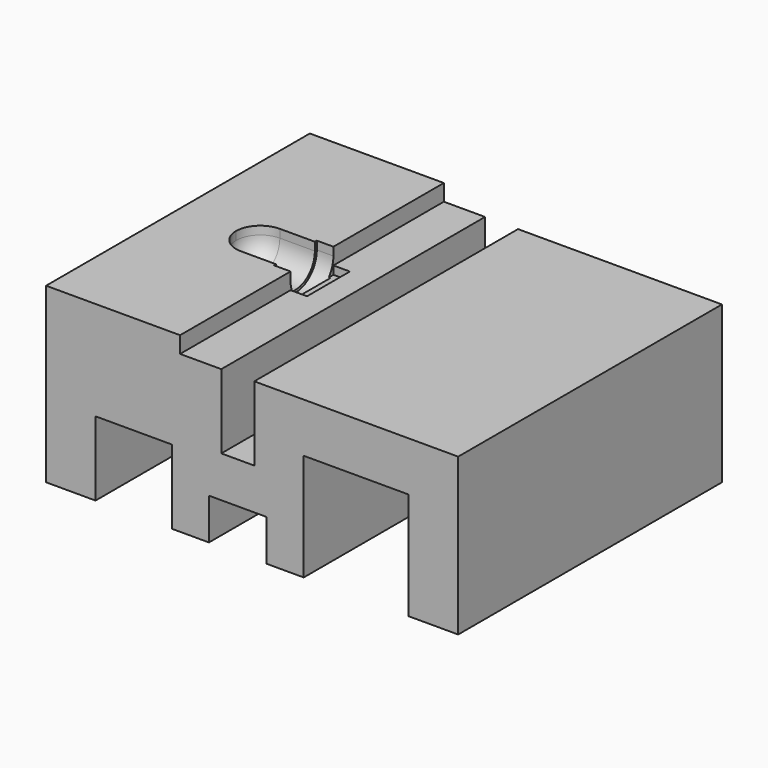
from build123d import *

# Parameters (mm, degrees)
F0_W          = 25
F0_H          = 20
F1_DEPTH      = 10
F4_W          = 2
F4_H          = 5
F4_W_2        = 1
F4_H_2        = 1
F5_DEPTH      = 25
F5_DEPTH_BACK = 25
F6_DEPTH      = 0.5
F7_DEPTH      = 0.5
F8_W          = 4.63
F8_H          = 4.5
F8_W_2        = 6.37
F8_H_2        = 6.5
F9_DEPTH      = 25
F10_W         = 1
F10_H         = 8.375
F11_DEPTH     = 0.5
F12_W         = 3.5
F12_H         = 2.5
F13_DEPTH     = 5
F14_W         = 3
F14_H         = 2
F15_DEPTH     = 5


with BuildPart() as f1:
    # F0 (on Top) → F1 (new body)
    with BuildSketch(Plane.XY):
        with Locations((7.5, 0)):
            Rectangle(F0_W, F0_H)
    extrude(amount=-F1_DEPTH)

    # F2 (on Top) → F3 (revolve, cut)
    with BuildSketch(Plane.XY):
        with BuildLine():
            Line((3.225, 0), (-1.475, 0))
            ThreePointArc((-1.475, 0), (-1.0429825023, -1.0429825023), (0, -1.475))
            Line((0, -1.475), (2.125, -1.475))
            Line((2.125, -1.475), (2.125, -1.625))
            Line((2.125, -1.625), (3.225, -1.625))
            Line((3.225, -1.625), (3.225, 0))
        make_face()
    revolve(axis=Axis((-2.855158034, 0, 0), (-1, 0, 0)), mode=Mode.SUBTRACT)

    # F4 (on Front) → F5 (cut, two sides)
    with BuildSketch(Plane.XZ) as f5_sk:
        with Locations((6.63, -2.5)):
            Rectangle(F4_W, F4_H)
        with Locations((3.63, -0.5)):
            Rectangle(F4_W_2, F4_H_2)
    extrude(amount=-F5_DEPTH, mode=Mode.SUBTRACT)
    extrude(f5_sk.sketch, amount=F5_DEPTH_BACK, mode=Mode.SUBTRACT)

    # F6 (cut): faces of the model
    f6_faces = [f1.faces().sort_by_distance(p)[0] for p in [
        (4.88, 0, 0),
        (13.815, 0, 0),
    ]]
    extrude(f6_faces, amount=-F6_DEPTH, mode=Mode.SUBTRACT)

    # F7 (add): a face of the model
    f7_faces = [f1.faces().sort_by_distance(p)[0] for p in [
        (2.9141072257, 5.8125, 0),
    ]]
    extrude(f7_faces, amount=F7_DEPTH)

    # F8 (on face) → F9 (cut)
    with BuildSketch(Plane.XZ.offset(10)):
        with Locations((0.315, -7.75)):
            Rectangle(F8_W, F8_H)
        with Locations((13.815, -6.75)):
            Rectangle(F8_W_2, F8_H_2)
    extrude(amount=-F9_DEPTH, mode=Mode.SUBTRACT)

    # F10 (on face) → F11 (join)
    with BuildSketch(Plane.XY.offset(-1)):
        with Locations((3.63, -5.8125)):
            Rectangle(F10_W, F10_H)
        with Locations((3.63, 5.8125)):
            Rectangle(F10_W, F10_H)
    extrude(amount=F11_DEPTH)

    # F12 (on face) → F13 (cut)
    with BuildSketch(Plane.XZ.offset(10)):
        with Locations((6.63, -8.75)):
            Rectangle(F12_W, F12_H)
    extrude(amount=-F13_DEPTH, mode=Mode.SUBTRACT)

    # F14 (on face) → F15 (join)
    with BuildSketch(Plane(origin=(0, 10, 0), x_dir=(-1, 0, 0), z_dir=(0, 1, 0))):
        with Locations((-6.63, -9)):
            Rectangle(F14_W, F14_H)
    extrude(amount=F15_DEPTH)


solid = f1.part
